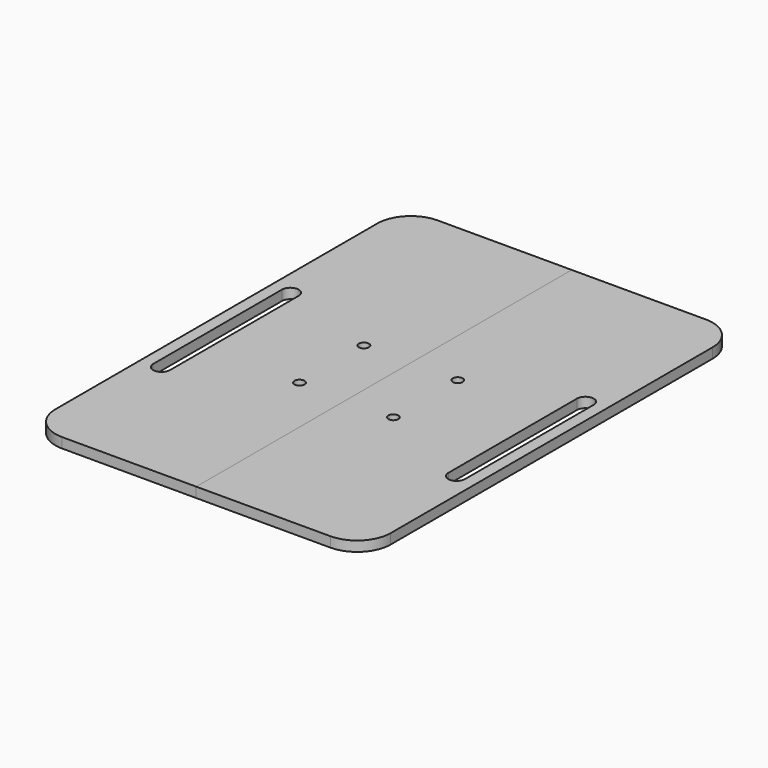
from build123d import *

# Parameters (mm, degrees)
F1_W     = 50
F1_H     = 140
F2_DEPTH = 3
F4_D     = 3
F7_DEPTH = 40.836263
F8_R     = 10


with BuildPart() as f2:
    # F1 (on face) → F2 (new body)
    with BuildSketch(Plane.XY):
        with Locations((25, 70)):
            Rectangle(F1_W, F1_H)
    extrude(amount=F2_DEPTH)

    # F4 (through all)
    with Locations(Plane.XY.offset(3)):
        with Locations((14, 80), (14, 56)):
            Hole(F4_D / 2)

    # F6 (on face) → F7 (cut)
    with BuildSketch(Plane.XY.offset(3)):
        with BuildLine():
            ThreePointArc((46.5, 90.088687), (44, 92.588687), (41.5, 90.088687))
            Line((41.5, 90.088687), (41.5, 42.088687))
            ThreePointArc((41.5, 42.088687), (44, 39.588687), (46.5, 42.088687))
            Line((46.5, 42.088687), (46.5, 90.088687))
        make_face()
    extrude(amount=-F7_DEPTH, mode=Mode.SUBTRACT)

    # F8
    f8_edges = [f2.edges().sort_by_distance(p)[0] for p in [
        (50, 140, 1.5),
        (50, 0, 1.5),
    ]]
    fillet(f8_edges, radius=F8_R)


with BuildPart() as f9_1:
    # F9: instance of F2
    add(f2.part.mirror(Plane.YZ))


solid = Compound([f2.part, f9_1.part])
